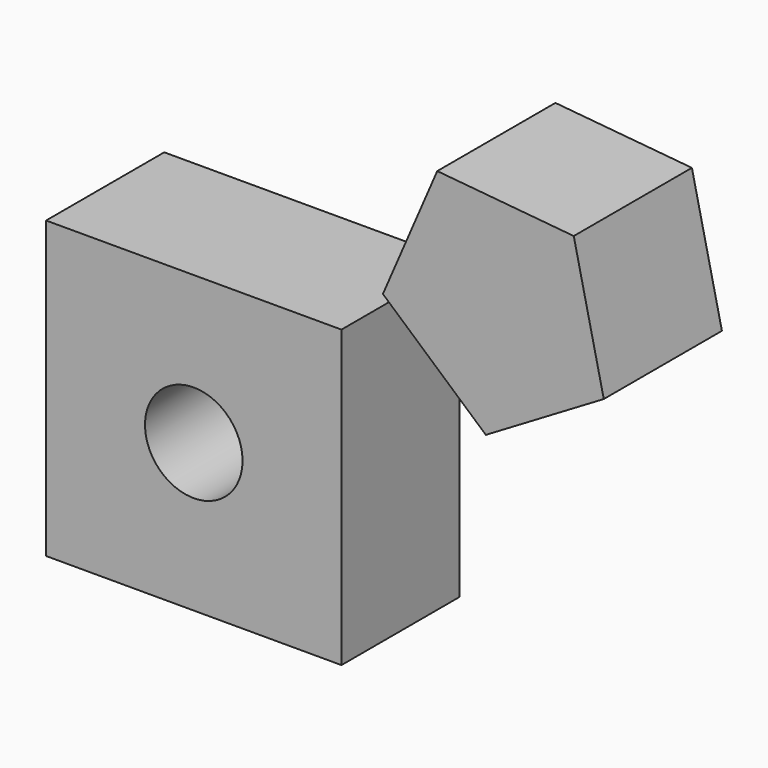
from build123d import *

# Parameters (mm, degrees)
F0_W     = 50.8
F0_H     = 50.8
F1_DEPTH = 25.4
F2_R     = 8.386612
F3_DEPTH = 25.401
F5_DEPTH = 25.4


with BuildPart() as f1:
    # F0 (on Front) → F1 (new body)
    with BuildSketch(Plane.XZ):
        with Locations((-11.374604, 11.482147)):
            Rectangle(F0_W, F0_H)
    extrude(amount=F1_DEPTH)

    # F2 (on face) → F3 (cut, through all)
    with BuildSketch(Plane.XZ.offset(25.4)):
        with Locations((-11.374604, 11.482147)):
            Circle(F2_R)
    extrude(amount=-F3_DEPTH, mode=Mode.SUBTRACT)


with BuildPart() as f5:
    # F4 (on Front) → F5 (new body)
    with BuildSketch(Plane.XZ):
        Polygon((38.85713, 29.018331), (59.141824, 41.038889), (53.97791, 64.045336), (30.501741, 66.243545), (21.156585, 44.595665), align=None)
    extrude(amount=F5_DEPTH)


solid = Compound([f1.part, f5.part])
